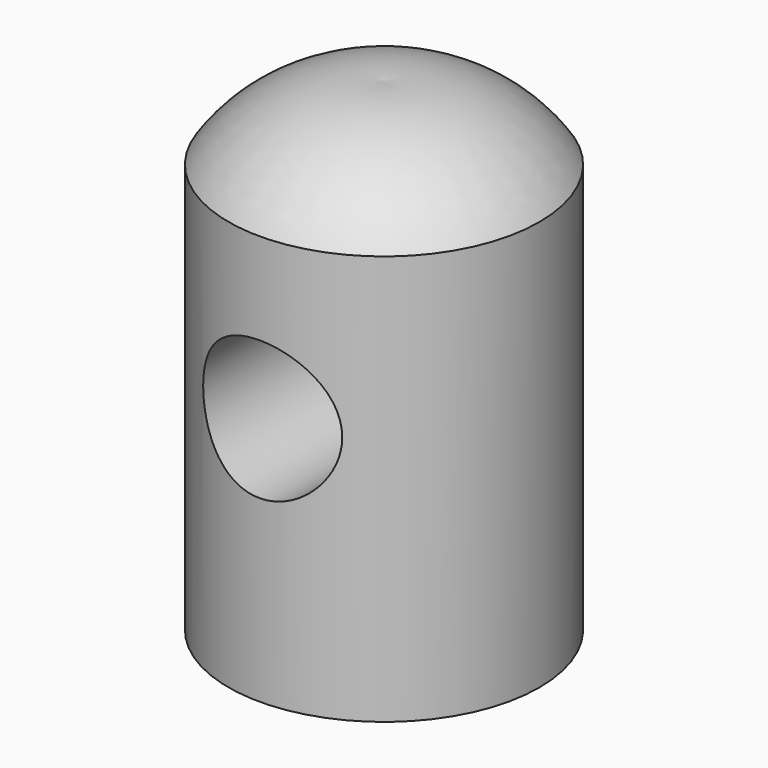
from build123d import *

# Parameters (mm, degrees)
F3_DEPTH = 21.844
F4_R     = 9.652
F5_DEPTH = 21.844


with BuildPart() as f1:
    # F0 (on Front) → F1 (revolve)
    with BuildSketch(Plane.XZ):
        with BuildLine():
            Line((-21.59, -24.892), (0, -24.892))
            Line((0, -24.892), (0, 0))
            Line((0, 0), (0, 42.164))
            ThreePointArc((0, 42.164), (-12.216408, 40.104491), (-21.59, 32.004))
            Line((-21.59, 32.004), (-21.59, 19.304))
            Line((-21.59, 19.304), (-21.59, 0))
            Line((-21.59, 0), (-21.59, -24.892))
        make_face()
    revolve(axis=Axis((0, 0, 8.636), (0, 0, -1)))

    # F2 (on Front) → F3 (cut)
    with BuildSketch(Plane.XZ):
        with BuildLine():
            ThreePointArc((0, 19.304), (-9.652, 9.652), (0, 0))
            Line((0, 0), (0, 19.304))
        make_face()
        with BuildLine():
            Line((0, 19.304), (0, 0))
            ThreePointArc((0, 0), (6.824995, 2.827005), (9.652, 9.652))
            ThreePointArc((9.652, 9.652), (6.824995, 16.476995), (0, 19.304))
        make_face()
    extrude(amount=-F3_DEPTH, mode=Mode.SUBTRACT)

    # F4 (on Front) → F5 (cut)
    with BuildSketch(Plane.XZ):
        with Locations((0, 9.652)):
            Circle(F4_R)
    extrude(amount=F5_DEPTH, mode=Mode.SUBTRACT)


solid = f1.part
